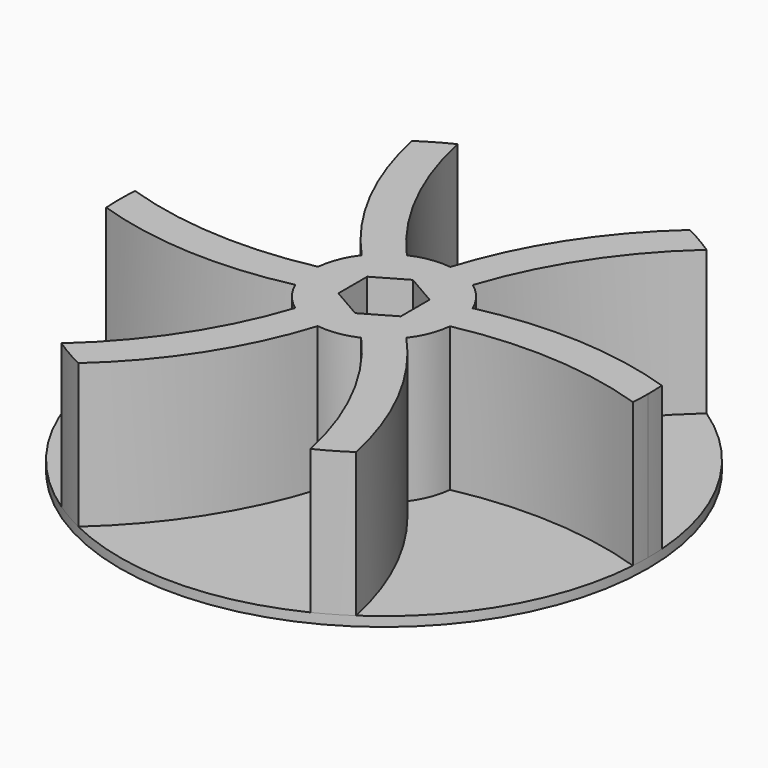
from build123d import *

# Parameters (mm, degrees)
F0_R     = 27.5
F0_R_2   = 7.5
F1_DEPTH = 1
F3_DEPTH = 15
F4_COUNT = 6
F5_DEPTH = 16


with BuildPart() as f1:
    # F0 (on Top) → F1 (new body)
    with BuildSketch(Plane.XY):
        Circle(F0_R)
        Circle(F0_R_2, mode=Mode.SUBTRACT)
        Circle(F0_R_2)
        Polygon((-3.25, 1.876388), (0, 3.752777), (3.25, 1.876388), (3.25, -1.876388), (0, -3.752777), (-3.25, -1.876388), align=None, mode=Mode.SUBTRACT)
    extrude(amount=F1_DEPTH)

    # F2 (on face) → F3 (join)
    with BuildSketch(Plane.XY.offset(1)):
        with BuildLine():
            ThreePointArc((-27.43591, 1.876388), (-27.5, 0), (-27.43591, -1.876388))
            ThreePointArc((-27.43591, -1.876388), (-15.342955, -3.824912), (-3.25, -1.876388))
            Line((-3.25, -1.876388), (-3.25, 1.876388))
            ThreePointArc((-3.25, 1.876388), (-15.342955, -0.072135), (-27.43591, 1.876388))
        make_face()
        with BuildLine():
            ThreePointArc((3.25, -1.876388), (15.342955, 0.072135), (27.43591, -1.876388))
            ThreePointArc((27.43591, -1.876388), (27.483973, -0.938741), (27.5, 0))
            ThreePointArc((27.5, 0), (27.483973, 0.938741), (27.43591, 1.876388))
            ThreePointArc((27.43591, 1.876388), (15.342955, 3.824912), (3.25, 1.876388))
            Line((3.25, 1.876388), (3.25, -1.876388))
        make_face()
    extrude(amount=F3_DEPTH)



with BuildPart() as f4_1:
    # F4: instance of F1
    add(f1.part.rotate(Axis((0, 0, 0), (0, 0, 1)), 1 * 360 / F4_COUNT))


with BuildPart() as f4_2:
    # F4: instance of F1
    add(f1.part.rotate(Axis((0, 0, 0), (0, 0, 1)), 2 * 360 / F4_COUNT))


with BuildPart() as f4_3:
    # F4: instance of F1
    add(f1.part.rotate(Axis((0, 0, 0), (0, 0, 1)), 3 * 360 / F4_COUNT))


with BuildPart() as f4_4:
    # F4: instance of F1
    add(f1.part.rotate(Axis((0, 0, 0), (0, 0, 1)), 4 * 360 / F4_COUNT))


with BuildPart() as f4_5:
    # F4: instance of F1
    add(f1.part.rotate(Axis((0, 0, 0), (0, 0, 1)), 5 * 360 / F4_COUNT))


with BuildPart() as f1_1:
    add(f1.part)

    add(f4_1.part)  # F5 merges F4_1

    add(f4_2.part)  # F5 merges F4_2

    add(f4_3.part)  # F5 merges F4_3

    add(f4_4.part)  # F5 merges F4_4

    add(f4_5.part)  # F5 merges F4_5
    # F0 (on Top) → F5 (join)
    with BuildSketch(Plane.XY):
        Circle(F0_R_2)
        Polygon((-3.25, 1.876388), (0, 3.752777), (3.25, 1.876388), (3.25, -1.876388), (0, -3.752777), (-3.25, -1.876388), align=None, mode=Mode.SUBTRACT)
    extrude(amount=F5_DEPTH)


solid = f1_1.part
